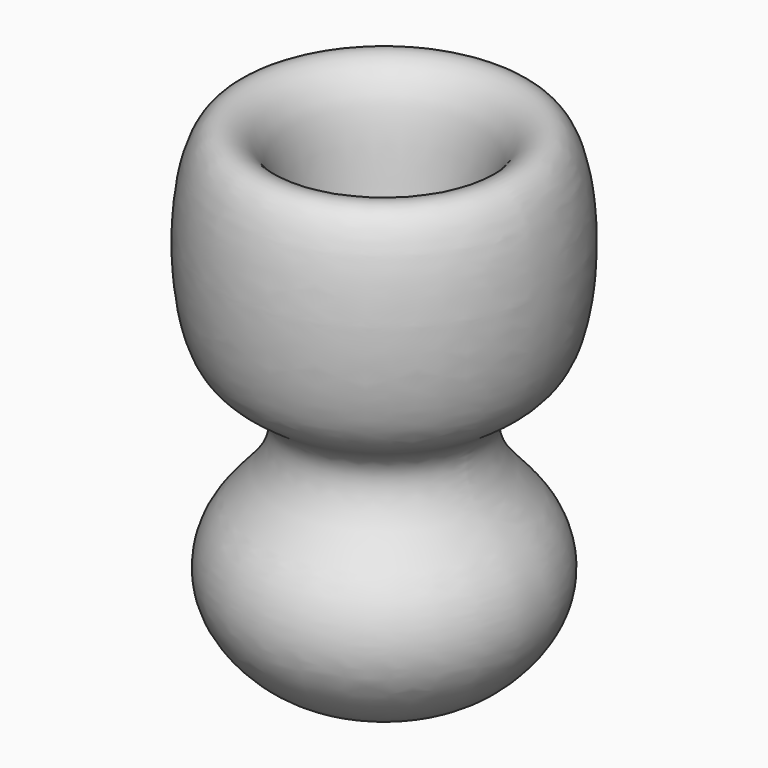
from build123d import *


with BuildPart() as f1:
    # F0 (on Front) → F1 (revolve)
    with BuildSketch(Plane.XZ):
        with BuildLine():
            add(Edge.make_bspline(
                [(1.4516130323, 3.4475806169), (2.1318060004, 3.8481098676), (3.8027340974, 4.8320300074), (3.6135046074, 10.7884563197), (6.22397252, 12.2710085244), (7.7122746968, 9.4433749874), (7.4493870435, 2.5334913236), (4.8898082961, 1.3476546421), (3.7950754837, 0.0439022012), (4.5018071005, -2.0278277159), (6.6004726415, -3.7276153673), (7.1859880893, -7.451744103), (3.4363146567, -10.7229785963), (1.4683517336, -9.5195984267), (2.1912713072, -8.3457438141), (3.4019040824, -6.9650467844), (3.8395278048, -4.9520100146), (2.428282014, -3.8972239188), (1.4516130323, -3.356854897)],
                knots=[0, 0, 0, 0, 0.0605770154, 0.1521421438, 0.2064965709, 0.2680961627, 0.3681113556, 0.4294903375, 0.4759588315, 0.5293593151, 0.5925147583, 0.6636510423, 0.7441993485, 0.7917450368, 0.8317260374, 0.885296035, 0.936079982, 1, 1, 1, 1], degree=3))
            Line((1.4516130323, 3.4475806169), (1.4516130323, 0))
            Line((1.4516130323, 0), (1.4516130323, -3.356854897))
        make_face()
    revolve(axis=Axis((0, 0, 5.0324884942), (0, 0, -1)))


solid = f1.part
